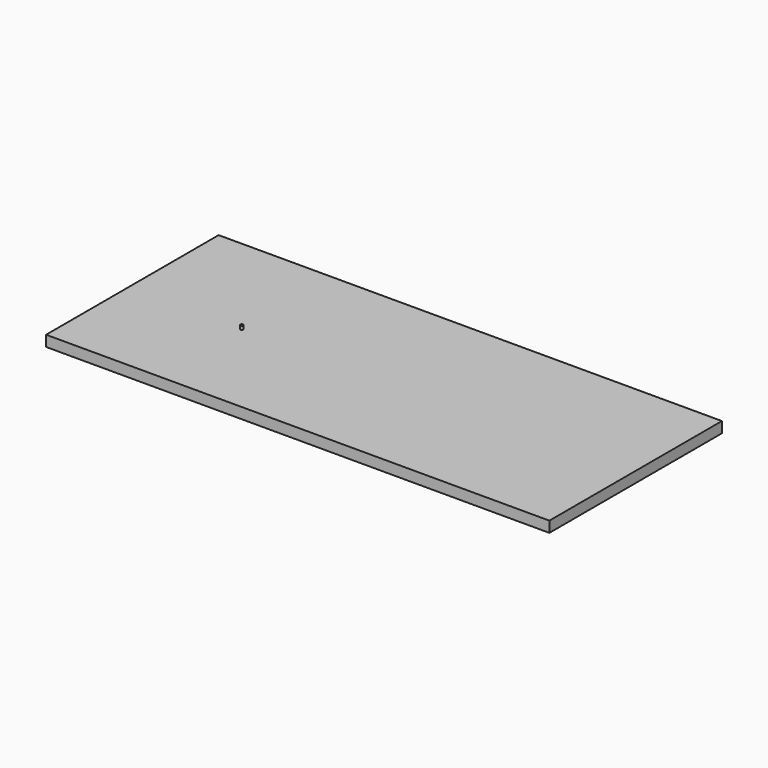
from build123d import *

# Parameters (mm, degrees)
F0_W     = 1400
F0_H     = 600
F1_DEPTH = 30
F3_R     = 4
F4_DEPTH = 10


with BuildPart() as f1:
    # F0 (on Top) → F1 (new body)
    with BuildSketch(Plane.XY):
        Rectangle(F0_W, F0_H)
    extrude(amount=F1_DEPTH)


with BuildPart() as f4:
    # F3 (on face) → F4 (new body)
    with BuildSketch(Plane.XY.offset(30)):
        with Locations((-384.519786, -13.967451)):
            Circle(F3_R)
    extrude(amount=F4_DEPTH)


solid = Compound([f1.part, f4.part])
